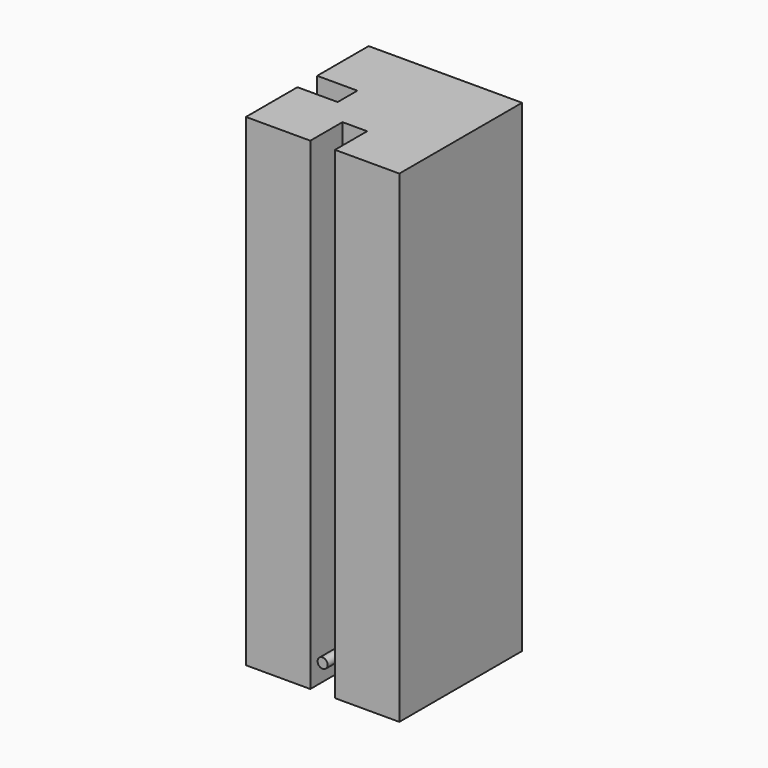
from build123d import *

# Parameters (mm, degrees)
F0_W     = 72.644
F0_H     = 72.644
F1_DEPTH = 228.6
F2_W     = 19.05
F2_H     = 11.684
F2_W_2   = 11.684
F2_H_2   = 19.05
F3_DEPTH = 228.601
F4_R     = 2.38125
F5_DEPTH = 19.05
F6_R     = 2.38125
F7_DEPTH = 19.05


with BuildPart() as f1:
    # F0 (on Top) → F1 (new body)
    with BuildSketch(Plane.XY):
        with Locations((36.322, 36.322)):
            Rectangle(F0_W, F0_H)
    extrude(amount=F1_DEPTH)

    # F2 (on face) → F3 (cut, through all)
    with BuildSketch(Plane.XY.offset(228.6)):
        with Locations((9.525, 36.322)):
            Rectangle(F2_W, F2_H)
        with Locations((36.322, 9.525)):
            Rectangle(F2_W_2, F2_H_2)
    extrude(amount=-F3_DEPTH, mode=Mode.SUBTRACT)

    # F4 (on face) → F5 (join, through all)
    with BuildSketch(Plane.XZ.offset(-19.05)):
        with Locations((36.322, 12.7)):
            Circle(F4_R)
    extrude(amount=F5_DEPTH)

    # F6 (on face) → F7 (join, through all)
    with BuildSketch(Plane(origin=(19.05, 0, 0), x_dir=(0, -1, 0), z_dir=(-1, 0, 0))):
        with Locations((-36.322, 12.7)):
            Circle(F6_R)
    extrude(amount=F7_DEPTH)


solid = f1.part
